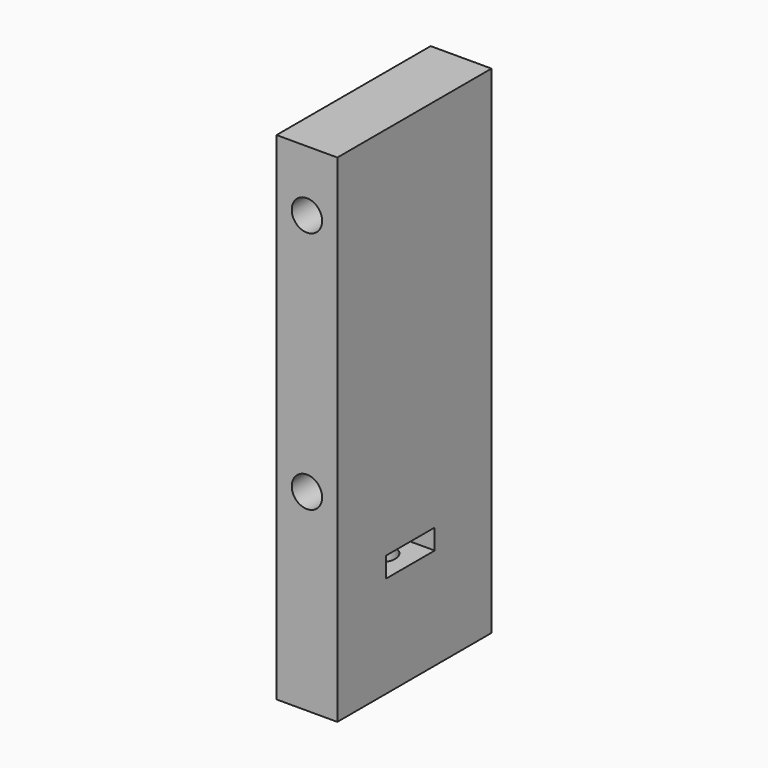
from build123d import *

# Parameters (mm, degrees)
CYLINDER1861_R               = 3
CYLINDER1861_DEPTH           = 3
CYLINDER1862_R               = 3
CYLINDER1862_DEPTH           = 3
CYLINDER1864_R               = 3
CYLINDER1864_DEPTH           = 3
CYLINDER1863_R               = 3
CYLINDER1863_DEPTH           = 3
CYLINDER1858_R               = 1.5
CYLINDER1858_DEPTH           = 50
CYLINDER1859_R               = 1.5
CYLINDER1859_DEPTH           = 50
CYLINDER1860_R               = 1.5
CYLINDER1860_DEPTH           = 50
CYLINDER1857_R               = 1.5
CYLINDER1857_DEPTH           = 50
BOX774_W                     = 6
BOX774_H                     = 8
BOX774_DEPTH                 = 2
CYLINDER1852_R               = 1.5
CYLINDER1852_DEPTH           = 50
CYLINDER1852_PLACEMENT_ANGLE = 45
BOX773_W                     = 49
BOX773_H                     = 19
BOX773_DEPTH                 = 6


with BuildPart() as obj1:
    # Cylinder1861 → Cylinder1861 (new body)
    with BuildSketch(Plane(origin=(-31, 150, 72), x_dir=(1, 0, 0), z_dir=(0, -1, 0))):
        Circle(CYLINDER1861_R)
    extrude(amount=CYLINDER1861_DEPTH)


with BuildPart() as obj2:
    # Cylinder1862 → Cylinder1862 (new body)
    with BuildSketch(Plane(origin=(31, 150, 48), x_dir=(1, 0, 0), z_dir=(0, -1, 0))):
        Circle(CYLINDER1862_R)
    extrude(amount=CYLINDER1862_DEPTH)


with BuildPart() as obj3:
    # Cylinder1864 → Cylinder1864 (new body)
    with BuildSketch(Plane(origin=(31, 150, 72), x_dir=(1, 0, 0), z_dir=(0, -1, 0))):
        Circle(CYLINDER1864_R)
    extrude(amount=CYLINDER1864_DEPTH)


with BuildPart() as compound932:
    # Cylinder1863 → Cylinder1863 (new body)
    with BuildSketch(Plane(origin=(-31, 150, 48), x_dir=(1, 0, 0), z_dir=(0, -1, 0))):
        Circle(CYLINDER1863_R)
    extrude(amount=CYLINDER1863_DEPTH)

    # Compound932: union obj1, obj2, obj3
    add(obj1.part)
    add(obj2.part)
    add(obj3.part)


with BuildPart() as compound932_1:
    # Compound932 placement: moved
    add(compound932.part.moved(Location((0, -9, 0))))


with BuildPart() as obj4:
    # Cylinder1858 → Cylinder1858 (new body)
    with BuildSketch(Plane(origin=(-31, 150, 72), x_dir=(1, 0, 0), z_dir=(0, -1, 0))):
        Circle(CYLINDER1858_R)
    extrude(amount=CYLINDER1858_DEPTH)


with BuildPart() as obj5:
    # Cylinder1859 → Cylinder1859 (new body)
    with BuildSketch(Plane(origin=(31, 150, 48), x_dir=(1, 0, 0), z_dir=(0, -1, 0))):
        Circle(CYLINDER1859_R)
    extrude(amount=CYLINDER1859_DEPTH)


with BuildPart() as obj6:
    # Cylinder1860 → Cylinder1860 (new body)
    with BuildSketch(Plane(origin=(31, 150, 72), x_dir=(1, 0, 0), z_dir=(0, -1, 0))):
        Circle(CYLINDER1860_R)
    extrude(amount=CYLINDER1860_DEPTH)


with BuildPart() as compound931:
    # Cylinder1857 → Cylinder1857 (new body)
    with BuildSketch(Plane(origin=(-31, 150, 48), x_dir=(1, 0, 0), z_dir=(0, -1, 0))):
        Circle(CYLINDER1857_R)
    extrude(amount=CYLINDER1857_DEPTH)

    # Compound931: union obj4, obj5, obj6
    add(obj4.part)
    add(obj5.part)
    add(obj6.part)


with BuildPart() as compound928:
    # Box774 → Box774 (new body)
    with BuildSketch(Plane(origin=(35, 92, 39), x_dir=(0, 1, 0), z_dir=(0, 0, 1))):
        with Locations((3, 4)):
            Rectangle(BOX774_W, BOX774_H)
    extrude(amount=BOX774_DEPTH)


with BuildPart() as compound929:
    # Cylinder1852 → Cylinder1852 (new body)
    with BuildSketch(Plane.XY):
        Circle(CYLINDER1852_R)
    extrude(amount=CYLINDER1852_DEPTH)


with BuildPart() as compound929_1:
    # Cylinder1852 placement: moved
    add(compound929.part.moved(Location((31, 95, 0))).rotate(Axis((31, 95, 0), (0, 0, 1)), CYLINDER1852_PLACEMENT_ANGLE))


with BuildPart() as cut581:
    # Box773 → Box773 (new body)
    with BuildSketch(Plane(origin=(28, 86, 78), x_dir=(0, 0, -1), z_dir=(1, 0, 0))):
        with Locations((24.5, 9.5)):
            Rectangle(BOX773_W, BOX773_H)
    extrude(amount=BOX773_DEPTH)

    # Cut577: cut Compound929
    add(compound929_1.part, mode=Mode.SUBTRACT)

    # Cut576: cut Compound928
    add(compound928.part, mode=Mode.SUBTRACT)


with BuildPart() as cut581_1:
    # Cut576 placement: moved
    add(cut581.part.moved(Location((0, 36, 0))))

    # Cut580: cut Compound931
    add(compound931.part, mode=Mode.SUBTRACT)

    # Cut581: cut Compound932
    add(compound932_1.part, mode=Mode.SUBTRACT)


solid = cut581_1.part
